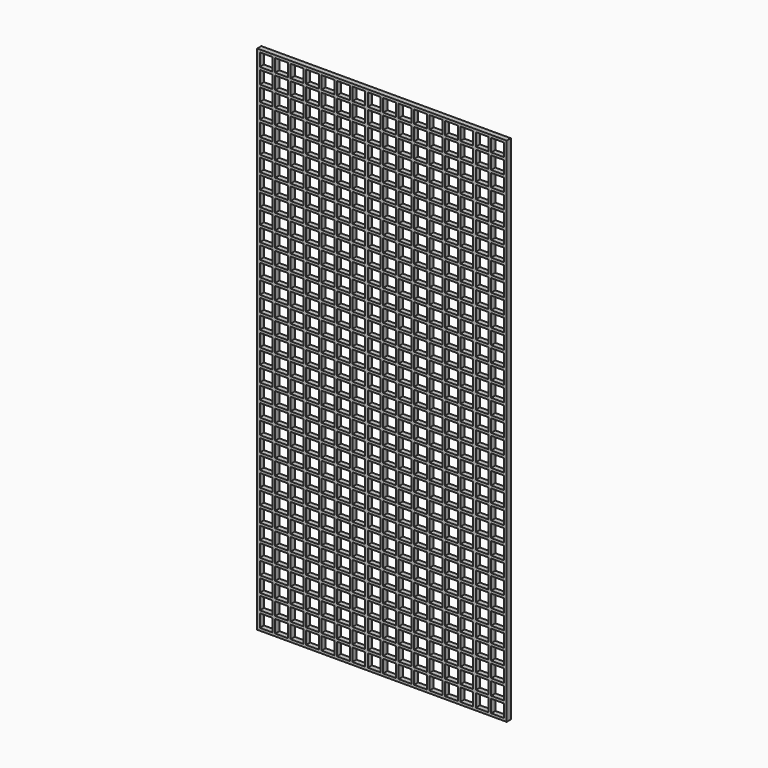
from build123d import *

# Parameters (mm, degrees)
F0_W     = 970
F0_H     = 1990
F1_DEPTH = 20
F2_W     = 50
F2_H     = 50
F3_DEPTH = 25


with BuildPart() as f1:
    # F0 (on Front) → F1 (new body)
    with BuildSketch(Plane.XZ):
        with Locations((-6.657156, 636.105046)):
            Rectangle(F0_W, F0_H)
    extrude(amount=F1_DEPTH)

    # F2 (on face) → F3 (cut)
    with BuildSketch(Plane.XZ.offset(20)):
        with Locations((-456.657156, 1596.105046)):
            Rectangle(F2_W, F2_H)
        with Locations((-456.657156, 1536.105046)):
            Rectangle(F2_W, F2_H)
        with Locations((-456.657156, 1476.105046)):
            Rectangle(F2_W, F2_H)
        with Locations((-456.657156, 1416.105046)):
            Rectangle(F2_W, F2_H)
        with Locations((-456.657156, 1356.105046)):
            Rectangle(F2_W, F2_H)
        with Locations((-456.657156, 1296.105046)):
            Rectangle(F2_W, F2_H)
        with Locations((-456.657156, 1236.105046)):
            Rectangle(F2_W, F2_H)
        with Locations((-456.657156, 1176.105046)):
            Rectangle(F2_W, F2_H)
        with Locations((-456.657156, 1116.105046)):
            Rectangle(F2_W, F2_H)
        with Locations((-456.657156, 1056.105046)):
            Rectangle(F2_W, F2_H)
        with Locations((-456.657156, 996.105046)):
            Rectangle(F2_W, F2_H)
        with Locations((-456.657156, 936.105046)):
            Rectangle(F2_W, F2_H)
        with Locations((-456.657156, 876.105046)):
            Rectangle(F2_W, F2_H)
        with Locations((-456.657156, 816.105046)):
            Rectangle(F2_W, F2_H)
        with Locations((-456.657156, 756.105046)):
            Rectangle(F2_W, F2_H)
        with Locations((-456.657156, 696.105046)):
            Rectangle(F2_W, F2_H)
        with Locations((-456.657156, 636.105046)):
            Rectangle(F2_W, F2_H)
        with Locations((-456.657156, 576.105046)):
            Rectangle(F2_W, F2_H)
        with Locations((-456.657156, 516.105046)):
            Rectangle(F2_W, F2_H)
        with Locations((-456.657156, 456.105046)):
            Rectangle(F2_W, F2_H)
        with Locations((-456.657156, 396.105046)):
            Rectangle(F2_W, F2_H)
        with Locations((-456.657156, 336.105046)):
            Rectangle(F2_W, F2_H)
        with Locations((-456.657156, 276.105046)):
            Rectangle(F2_W, F2_H)
        with Locations((-456.657156, 216.105046)):
            Rectangle(F2_W, F2_H)
        with Locations((-456.657156, 156.105046)):
            Rectangle(F2_W, F2_H)
        with Locations((-456.657156, 96.105046)):
            Rectangle(F2_W, F2_H)
        with Locations((-456.657156, 36.105046)):
            Rectangle(F2_W, F2_H)
        with Locations((-456.657156, -23.894954)):
            Rectangle(F2_W, F2_H)
        with Locations((-456.657156, -83.894954)):
            Rectangle(F2_W, F2_H)
        with Locations((-456.657156, -143.894954)):
            Rectangle(F2_W, F2_H)
        with Locations((-456.657156, -203.894954)):
            Rectangle(F2_W, F2_H)
        with Locations((-456.657156, -263.894954)):
            Rectangle(F2_W, F2_H)
        with Locations((-456.657156, -323.894954)):
            Rectangle(F2_W, F2_H)
        with Locations((-396.657156, 1596.105046)):
            Rectangle(F2_W, F2_H)
        with Locations((-396.657156, 1536.105046)):
            Rectangle(F2_W, F2_H)
        with Locations((-396.657156, 1476.105046)):
            Rectangle(F2_W, F2_H)
        with Locations((-396.657156, 1416.105046)):
            Rectangle(F2_W, F2_H)
        with Locations((-396.657156, 1356.105046)):
            Rectangle(F2_W, F2_H)
        with Locations((-396.657156, 1296.105046)):
            Rectangle(F2_W, F2_H)
        with Locations((-396.657156, 1236.105046)):
            Rectangle(F2_W, F2_H)
        with Locations((-396.657156, 1176.105046)):
            Rectangle(F2_W, F2_H)
        with Locations((-396.657156, 1116.105046)):
            Rectangle(F2_W, F2_H)
        with Locations((-396.657156, 1056.105046)):
            Rectangle(F2_W, F2_H)
        with Locations((-396.657156, 996.105046)):
            Rectangle(F2_W, F2_H)
        with Locations((-396.657156, 936.105046)):
            Rectangle(F2_W, F2_H)
        with Locations((-396.657156, 876.105046)):
            Rectangle(F2_W, F2_H)
        with Locations((-396.657156, 816.105046)):
            Rectangle(F2_W, F2_H)
        with Locations((-396.657156, 756.105046)):
            Rectangle(F2_W, F2_H)
        with Locations((-396.657156, 696.105046)):
            Rectangle(F2_W, F2_H)
        with Locations((-396.657156, 636.105046)):
            Rectangle(F2_W, F2_H)
        with Locations((-396.657156, 576.105046)):
            Rectangle(F2_W, F2_H)
        with Locations((-396.657156, 516.105046)):
            Rectangle(F2_W, F2_H)
        with Locations((-396.657156, 456.105046)):
            Rectangle(F2_W, F2_H)
        with Locations((-396.657156, 396.105046)):
            Rectangle(F2_W, F2_H)
        with Locations((-396.657156, 336.105046)):
            Rectangle(F2_W, F2_H)
        with Locations((-396.657156, 276.105046)):
            Rectangle(F2_W, F2_H)
        with Locations((-396.657156, 216.105046)):
            Rectangle(F2_W, F2_H)
        with Locations((-396.657156, 156.105046)):
            Rectangle(F2_W, F2_H)
        with Locations((-396.657156, 96.105046)):
            Rectangle(F2_W, F2_H)
        with Locations((-396.657156, 36.105046)):
            Rectangle(F2_W, F2_H)
        with Locations((-396.657156, -23.894954)):
            Rectangle(F2_W, F2_H)
        with Locations((-396.657156, -83.894954)):
            Rectangle(F2_W, F2_H)
        with Locations((-396.657156, -143.894954)):
            Rectangle(F2_W, F2_H)
        with Locations((-396.657156, -203.894954)):
            Rectangle(F2_W, F2_H)
        with Locations((-396.657156, -263.894954)):
            Rectangle(F2_W, F2_H)
        with Locations((-396.657156, -323.894954)):
            Rectangle(F2_W, F2_H)
        with Locations((-336.657156, 1596.105046)):
            Rectangle(F2_W, F2_H)
        with Locations((-336.657156, 1536.105046)):
            Rectangle(F2_W, F2_H)
        with Locations((-336.657156, 1476.105046)):
            Rectangle(F2_W, F2_H)
        with Locations((-336.657156, 1416.105046)):
            Rectangle(F2_W, F2_H)
        with Locations((-336.657156, 1356.105046)):
            Rectangle(F2_W, F2_H)
        with Locations((-336.657156, 1296.105046)):
            Rectangle(F2_W, F2_H)
        with Locations((-336.657156, 1236.105046)):
            Rectangle(F2_W, F2_H)
        with Locations((-336.657156, 1176.105046)):
            Rectangle(F2_W, F2_H)
        with Locations((-336.657156, 1116.105046)):
            Rectangle(F2_W, F2_H)
        with Locations((-336.657156, 1056.105046)):
            Rectangle(F2_W, F2_H)
        with Locations((-336.657156, 996.105046)):
            Rectangle(F2_W, F2_H)
        with Locations((-336.657156, 936.105046)):
            Rectangle(F2_W, F2_H)
        with Locations((-336.657156, 876.105046)):
            Rectangle(F2_W, F2_H)
        with Locations((-336.657156, 816.105046)):
            Rectangle(F2_W, F2_H)
        with Locations((-336.657156, 756.105046)):
            Rectangle(F2_W, F2_H)
        with Locations((-336.657156, 696.105046)):
            Rectangle(F2_W, F2_H)
        with Locations((-336.657156, 636.105046)):
            Rectangle(F2_W, F2_H)
        with Locations((-336.657156, 576.105046)):
            Rectangle(F2_W, F2_H)
        with Locations((-336.657156, 516.105046)):
            Rectangle(F2_W, F2_H)
        with Locations((-336.657156, 456.105046)):
            Rectangle(F2_W, F2_H)
        with Locations((-336.657156, 396.105046)):
            Rectangle(F2_W, F2_H)
        with Locations((-336.657156, 336.105046)):
            Rectangle(F2_W, F2_H)
        with Locations((-336.657156, 276.105046)):
            Rectangle(F2_W, F2_H)
        with Locations((-336.657156, 216.105046)):
            Rectangle(F2_W, F2_H)
        with Locations((-336.657156, 156.105046)):
            Rectangle(F2_W, F2_H)
        with Locations((-336.657156, 96.105046)):
            Rectangle(F2_W, F2_H)
        with Locations((-336.657156, 36.105046)):
            Rectangle(F2_W, F2_H)
        with Locations((-336.657156, -23.894954)):
            Rectangle(F2_W, F2_H)
        with Locations((-336.657156, -83.894954)):
            Rectangle(F2_W, F2_H)
        with Locations((-336.657156, -143.894954)):
            Rectangle(F2_W, F2_H)
        with Locations((-336.657156, -203.894954)):
            Rectangle(F2_W, F2_H)
        with Locations((-336.657156, -263.894954)):
            Rectangle(F2_W, F2_H)
        with Locations((-336.657156, -323.894954)):
            Rectangle(F2_W, F2_H)
        with Locations((-276.657156, 1596.105046)):
            Rectangle(F2_W, F2_H)
        with Locations((-276.657156, 1536.105046)):
            Rectangle(F2_W, F2_H)
        with Locations((-276.657156, 1476.105046)):
            Rectangle(F2_W, F2_H)
        with Locations((-276.657156, 1416.105046)):
            Rectangle(F2_W, F2_H)
        with Locations((-276.657156, 1356.105046)):
            Rectangle(F2_W, F2_H)
        with Locations((-276.657156, 1296.105046)):
            Rectangle(F2_W, F2_H)
        with Locations((-276.657156, 1236.105046)):
            Rectangle(F2_W, F2_H)
        with Locations((-276.657156, 1176.105046)):
            Rectangle(F2_W, F2_H)
        with Locations((-276.657156, 1116.105046)):
            Rectangle(F2_W, F2_H)
        with Locations((-276.657156, 1056.105046)):
            Rectangle(F2_W, F2_H)
        with Locations((-276.657156, 996.105046)):
            Rectangle(F2_W, F2_H)
        with Locations((-276.657156, 936.105046)):
            Rectangle(F2_W, F2_H)
        with Locations((-276.657156, 876.105046)):
            Rectangle(F2_W, F2_H)
        with Locations((-276.657156, 816.105046)):
            Rectangle(F2_W, F2_H)
        with Locations((-276.657156, 756.105046)):
            Rectangle(F2_W, F2_H)
        with Locations((-276.657156, 696.105046)):
            Rectangle(F2_W, F2_H)
        with Locations((-276.657156, 636.105046)):
            Rectangle(F2_W, F2_H)
        with Locations((-276.657156, 576.105046)):
            Rectangle(F2_W, F2_H)
        with Locations((-276.657156, 516.105046)):
            Rectangle(F2_W, F2_H)
        with Locations((-276.657156, 456.105046)):
            Rectangle(F2_W, F2_H)
        with Locations((-276.657156, 396.105046)):
            Rectangle(F2_W, F2_H)
        with Locations((-276.657156, 336.105046)):
            Rectangle(F2_W, F2_H)
        with Locations((-276.657156, 276.105046)):
            Rectangle(F2_W, F2_H)
        with Locations((-276.657156, 216.105046)):
            Rectangle(F2_W, F2_H)
        with Locations((-276.657156, 156.105046)):
            Rectangle(F2_W, F2_H)
        with Locations((-276.657156, 96.105046)):
            Rectangle(F2_W, F2_H)
        with Locations((-276.657156, 36.105046)):
            Rectangle(F2_W, F2_H)
        with Locations((-276.657156, -23.894954)):
            Rectangle(F2_W, F2_H)
        with Locations((-276.657156, -83.894954)):
            Rectangle(F2_W, F2_H)
        with Locations((-276.657156, -143.894954)):
            Rectangle(F2_W, F2_H)
        with Locations((-276.657156, -203.894954)):
            Rectangle(F2_W, F2_H)
        with Locations((-276.657156, -263.894954)):
            Rectangle(F2_W, F2_H)
        with Locations((-276.657156, -323.894954)):
            Rectangle(F2_W, F2_H)
        with Locations((-216.657156, 1596.105046)):
            Rectangle(F2_W, F2_H)
        with Locations((-216.657156, 1536.105046)):
            Rectangle(F2_W, F2_H)
        with Locations((-216.657156, 1476.105046)):
            Rectangle(F2_W, F2_H)
        with Locations((-216.657156, 1416.105046)):
            Rectangle(F2_W, F2_H)
        with Locations((-216.657156, 1356.105046)):
            Rectangle(F2_W, F2_H)
        with Locations((-216.657156, 1296.105046)):
            Rectangle(F2_W, F2_H)
        with Locations((-216.657156, 1236.105046)):
            Rectangle(F2_W, F2_H)
        with Locations((-216.657156, 1176.105046)):
            Rectangle(F2_W, F2_H)
        with Locations((-216.657156, 1116.105046)):
            Rectangle(F2_W, F2_H)
        with Locations((-216.657156, 1056.105046)):
            Rectangle(F2_W, F2_H)
        with Locations((-216.657156, 996.105046)):
            Rectangle(F2_W, F2_H)
        with Locations((-216.657156, 936.105046)):
            Rectangle(F2_W, F2_H)
        with Locations((-216.657156, 876.105046)):
            Rectangle(F2_W, F2_H)
        with Locations((-216.657156, 816.105046)):
            Rectangle(F2_W, F2_H)
        with Locations((-216.657156, 756.105046)):
            Rectangle(F2_W, F2_H)
        with Locations((-216.657156, 696.105046)):
            Rectangle(F2_W, F2_H)
        with Locations((-216.657156, 636.105046)):
            Rectangle(F2_W, F2_H)
        with Locations((-216.657156, 576.105046)):
            Rectangle(F2_W, F2_H)
        with Locations((-216.657156, 516.105046)):
            Rectangle(F2_W, F2_H)
        with Locations((-216.657156, 456.105046)):
            Rectangle(F2_W, F2_H)
        with Locations((-216.657156, 396.105046)):
            Rectangle(F2_W, F2_H)
        with Locations((-216.657156, 336.105046)):
            Rectangle(F2_W, F2_H)
        with Locations((-216.657156, 276.105046)):
            Rectangle(F2_W, F2_H)
        with Locations((-216.657156, 216.105046)):
            Rectangle(F2_W, F2_H)
        with Locations((-216.657156, 156.105046)):
            Rectangle(F2_W, F2_H)
        with Locations((-216.657156, 96.105046)):
            Rectangle(F2_W, F2_H)
        with Locations((-216.657156, 36.105046)):
            Rectangle(F2_W, F2_H)
        with Locations((-216.657156, -23.894954)):
            Rectangle(F2_W, F2_H)
        with Locations((-216.657156, -83.894954)):
            Rectangle(F2_W, F2_H)
        with Locations((-216.657156, -143.894954)):
            Rectangle(F2_W, F2_H)
        with Locations((-216.657156, -203.894954)):
            Rectangle(F2_W, F2_H)
        with Locations((-216.657156, -263.894954)):
            Rectangle(F2_W, F2_H)
        with Locations((-216.657156, -323.894954)):
            Rectangle(F2_W, F2_H)
        with Locations((-156.657156, 1596.105046)):
            Rectangle(F2_W, F2_H)
        with Locations((-156.657156, 1536.105046)):
            Rectangle(F2_W, F2_H)
        with Locations((-156.657156, 1476.105046)):
            Rectangle(F2_W, F2_H)
        with Locations((-156.657156, 1416.105046)):
            Rectangle(F2_W, F2_H)
        with Locations((-156.657156, 1356.105046)):
            Rectangle(F2_W, F2_H)
        with Locations((-156.657156, 1296.105046)):
            Rectangle(F2_W, F2_H)
        with Locations((-156.657156, 1236.105046)):
            Rectangle(F2_W, F2_H)
        with Locations((-156.657156, 1176.105046)):
            Rectangle(F2_W, F2_H)
        with Locations((-156.657156, 1116.105046)):
            Rectangle(F2_W, F2_H)
        with Locations((-156.657156, 1056.105046)):
            Rectangle(F2_W, F2_H)
        with Locations((-156.657156, 996.105046)):
            Rectangle(F2_W, F2_H)
        with Locations((-156.657156, 936.105046)):
            Rectangle(F2_W, F2_H)
        with Locations((-156.657156, 876.105046)):
            Rectangle(F2_W, F2_H)
        with Locations((-156.657156, 816.105046)):
            Rectangle(F2_W, F2_H)
        with Locations((-156.657156, 756.105046)):
            Rectangle(F2_W, F2_H)
        with Locations((-156.657156, 696.105046)):
            Rectangle(F2_W, F2_H)
        with Locations((-156.657156, 636.105046)):
            Rectangle(F2_W, F2_H)
        with Locations((-156.657156, 576.105046)):
            Rectangle(F2_W, F2_H)
        with Locations((-156.657156, 516.105046)):
            Rectangle(F2_W, F2_H)
        with Locations((-156.657156, 456.105046)):
            Rectangle(F2_W, F2_H)
        with Locations((-156.657156, 396.105046)):
            Rectangle(F2_W, F2_H)
        with Locations((-156.657156, 336.105046)):
            Rectangle(F2_W, F2_H)
        with Locations((-156.657156, 276.105046)):
            Rectangle(F2_W, F2_H)
        with Locations((-156.657156, 216.105046)):
            Rectangle(F2_W, F2_H)
        with Locations((-156.657156, 156.105046)):
            Rectangle(F2_W, F2_H)
        with Locations((-156.657156, 96.105046)):
            Rectangle(F2_W, F2_H)
        with Locations((-156.657156, 36.105046)):
            Rectangle(F2_W, F2_H)
        with Locations((-156.657156, -23.894954)):
            Rectangle(F2_W, F2_H)
        with Locations((-156.657156, -83.894954)):
            Rectangle(F2_W, F2_H)
        with Locations((-156.657156, -143.894954)):
            Rectangle(F2_W, F2_H)
        with Locations((-156.657156, -203.894954)):
            Rectangle(F2_W, F2_H)
        with Locations((-156.657156, -263.894954)):
            Rectangle(F2_W, F2_H)
        with Locations((-156.657156, -323.894954)):
            Rectangle(F2_W, F2_H)
        with Locations((-96.657156, 1596.105046)):
            Rectangle(F2_W, F2_H)
        with Locations((-96.657156, 1536.105046)):
            Rectangle(F2_W, F2_H)
        with Locations((-96.657156, 1476.105046)):
            Rectangle(F2_W, F2_H)
        with Locations((-96.657156, 1416.105046)):
            Rectangle(F2_W, F2_H)
        with Locations((-96.657156, 1356.105046)):
            Rectangle(F2_W, F2_H)
        with Locations((-96.657156, 1296.105046)):
            Rectangle(F2_W, F2_H)
        with Locations((-96.657156, 1236.105046)):
            Rectangle(F2_W, F2_H)
        with Locations((-96.657156, 1176.105046)):
            Rectangle(F2_W, F2_H)
        with Locations((-96.657156, 1116.105046)):
            Rectangle(F2_W, F2_H)
        with Locations((-96.657156, 1056.105046)):
            Rectangle(F2_W, F2_H)
        with Locations((-96.657156, 996.105046)):
            Rectangle(F2_W, F2_H)
        with Locations((-96.657156, 936.105046)):
            Rectangle(F2_W, F2_H)
        with Locations((-96.657156, 876.105046)):
            Rectangle(F2_W, F2_H)
        with Locations((-96.657156, 816.105046)):
            Rectangle(F2_W, F2_H)
        with Locations((-96.657156, 756.105046)):
            Rectangle(F2_W, F2_H)
        with Locations((-96.657156, 696.105046)):
            Rectangle(F2_W, F2_H)
        with Locations((-96.657156, 636.105046)):
            Rectangle(F2_W, F2_H)
        with Locations((-96.657156, 576.105046)):
            Rectangle(F2_W, F2_H)
        with Locations((-96.657156, 516.105046)):
            Rectangle(F2_W, F2_H)
        with Locations((-96.657156, 456.105046)):
            Rectangle(F2_W, F2_H)
        with Locations((-96.657156, 396.105046)):
            Rectangle(F2_W, F2_H)
        with Locations((-96.657156, 336.105046)):
            Rectangle(F2_W, F2_H)
        with Locations((-96.657156, 276.105046)):
            Rectangle(F2_W, F2_H)
        with Locations((-96.657156, 216.105046)):
            Rectangle(F2_W, F2_H)
        with Locations((-96.657156, 156.105046)):
            Rectangle(F2_W, F2_H)
        with Locations((-96.657156, 96.105046)):
            Rectangle(F2_W, F2_H)
        with Locations((-96.657156, 36.105046)):
            Rectangle(F2_W, F2_H)
        with Locations((-96.657156, -23.894954)):
            Rectangle(F2_W, F2_H)
        with Locations((-96.657156, -83.894954)):
            Rectangle(F2_W, F2_H)
        with Locations((-96.657156, -143.894954)):
            Rectangle(F2_W, F2_H)
        with Locations((-96.657156, -203.894954)):
            Rectangle(F2_W, F2_H)
        with Locations((-96.657156, -263.894954)):
            Rectangle(F2_W, F2_H)
        with Locations((-96.657156, -323.894954)):
            Rectangle(F2_W, F2_H)
        with Locations((-36.657156, 1596.105046)):
            Rectangle(F2_W, F2_H)
        with Locations((-36.657156, 1536.105046)):
            Rectangle(F2_W, F2_H)
        with Locations((-36.657156, 1476.105046)):
            Rectangle(F2_W, F2_H)
        with Locations((-36.657156, 1416.105046)):
            Rectangle(F2_W, F2_H)
        with Locations((-36.657156, 1356.105046)):
            Rectangle(F2_W, F2_H)
        with Locations((-36.657156, 1296.105046)):
            Rectangle(F2_W, F2_H)
        with Locations((-36.657156, 1236.105046)):
            Rectangle(F2_W, F2_H)
        with Locations((-36.657156, 1176.105046)):
            Rectangle(F2_W, F2_H)
        with Locations((-36.657156, 1116.105046)):
            Rectangle(F2_W, F2_H)
        with Locations((-36.657156, 1056.105046)):
            Rectangle(F2_W, F2_H)
        with Locations((-36.657156, 996.105046)):
            Rectangle(F2_W, F2_H)
        with Locations((-36.657156, 936.105046)):
            Rectangle(F2_W, F2_H)
        with Locations((-36.657156, 876.105046)):
            Rectangle(F2_W, F2_H)
        with Locations((-36.657156, 816.105046)):
            Rectangle(F2_W, F2_H)
        with Locations((-36.657156, 756.105046)):
            Rectangle(F2_W, F2_H)
        with Locations((-36.657156, 696.105046)):
            Rectangle(F2_W, F2_H)
        with Locations((-36.657156, 636.105046)):
            Rectangle(F2_W, F2_H)
        with Locations((-36.657156, 576.105046)):
            Rectangle(F2_W, F2_H)
        with Locations((-36.657156, 516.105046)):
            Rectangle(F2_W, F2_H)
        with Locations((-36.657156, 456.105046)):
            Rectangle(F2_W, F2_H)
        with Locations((-36.657156, 396.105046)):
            Rectangle(F2_W, F2_H)
        with Locations((-36.657156, 336.105046)):
            Rectangle(F2_W, F2_H)
        with Locations((-36.657156, 276.105046)):
            Rectangle(F2_W, F2_H)
        with Locations((-36.657156, 216.105046)):
            Rectangle(F2_W, F2_H)
        with Locations((-36.657156, 156.105046)):
            Rectangle(F2_W, F2_H)
        with Locations((-36.657156, 96.105046)):
            Rectangle(F2_W, F2_H)
        with Locations((-36.657156, 36.105046)):
            Rectangle(F2_W, F2_H)
        with Locations((-36.657156, -23.894954)):
            Rectangle(F2_W, F2_H)
        with Locations((-36.657156, -83.894954)):
            Rectangle(F2_W, F2_H)
        with Locations((-36.657156, -143.894954)):
            Rectangle(F2_W, F2_H)
        with Locations((-36.657156, -203.894954)):
            Rectangle(F2_W, F2_H)
        with Locations((-36.657156, -263.894954)):
            Rectangle(F2_W, F2_H)
        with Locations((-36.657156, -323.894954)):
            Rectangle(F2_W, F2_H)
        with Locations((23.342844, 1596.105046)):
            Rectangle(F2_W, F2_H)
        with Locations((23.342844, 1536.105046)):
            Rectangle(F2_W, F2_H)
        with Locations((23.342844, 1476.105046)):
            Rectangle(F2_W, F2_H)
        with Locations((23.342844, 1416.105046)):
            Rectangle(F2_W, F2_H)
        with Locations((23.342844, 1356.105046)):
            Rectangle(F2_W, F2_H)
        with Locations((23.342844, 1296.105046)):
            Rectangle(F2_W, F2_H)
        with Locations((23.342844, 1236.105046)):
            Rectangle(F2_W, F2_H)
        with Locations((23.342844, 1176.105046)):
            Rectangle(F2_W, F2_H)
        with Locations((23.342844, 1116.105046)):
            Rectangle(F2_W, F2_H)
        with Locations((23.342844, 1056.105046)):
            Rectangle(F2_W, F2_H)
        with Locations((23.342844, 996.105046)):
            Rectangle(F2_W, F2_H)
        with Locations((23.342844, 936.105046)):
            Rectangle(F2_W, F2_H)
        with Locations((23.342844, 876.105046)):
            Rectangle(F2_W, F2_H)
        with Locations((23.342844, 816.105046)):
            Rectangle(F2_W, F2_H)
        with Locations((23.342844, 756.105046)):
            Rectangle(F2_W, F2_H)
        with Locations((23.342844, 696.105046)):
            Rectangle(F2_W, F2_H)
        with Locations((23.342844, 636.105046)):
            Rectangle(F2_W, F2_H)
        with Locations((23.342844, 576.105046)):
            Rectangle(F2_W, F2_H)
        with Locations((23.342844, 516.105046)):
            Rectangle(F2_W, F2_H)
        with Locations((23.342844, 456.105046)):
            Rectangle(F2_W, F2_H)
        with Locations((23.342844, 396.105046)):
            Rectangle(F2_W, F2_H)
        with Locations((23.342844, 336.105046)):
            Rectangle(F2_W, F2_H)
        with Locations((23.342844, 276.105046)):
            Rectangle(F2_W, F2_H)
        with Locations((23.342844, 216.105046)):
            Rectangle(F2_W, F2_H)
        with Locations((23.342844, 156.105046)):
            Rectangle(F2_W, F2_H)
        with Locations((23.342844, 96.105046)):
            Rectangle(F2_W, F2_H)
        with Locations((23.342844, 36.105046)):
            Rectangle(F2_W, F2_H)
        with Locations((23.342844, -23.894954)):
            Rectangle(F2_W, F2_H)
        with Locations((23.342844, -83.894954)):
            Rectangle(F2_W, F2_H)
        with Locations((23.342844, -143.894954)):
            Rectangle(F2_W, F2_H)
        with Locations((23.342844, -203.894954)):
            Rectangle(F2_W, F2_H)
        with Locations((23.342844, -263.894954)):
            Rectangle(F2_W, F2_H)
        with Locations((23.342844, -323.894954)):
            Rectangle(F2_W, F2_H)
        with Locations((83.342844, 1596.105046)):
            Rectangle(F2_W, F2_H)
        with Locations((83.342844, 1536.105046)):
            Rectangle(F2_W, F2_H)
        with Locations((83.342844, 1476.105046)):
            Rectangle(F2_W, F2_H)
        with Locations((83.342844, 1416.105046)):
            Rectangle(F2_W, F2_H)
        with Locations((83.342844, 1356.105046)):
            Rectangle(F2_W, F2_H)
        with Locations((83.342844, 1296.105046)):
            Rectangle(F2_W, F2_H)
        with Locations((83.342844, 1236.105046)):
            Rectangle(F2_W, F2_H)
        with Locations((83.342844, 1176.105046)):
            Rectangle(F2_W, F2_H)
        with Locations((83.342844, 1116.105046)):
            Rectangle(F2_W, F2_H)
        with Locations((83.342844, 1056.105046)):
            Rectangle(F2_W, F2_H)
        with Locations((83.342844, 996.105046)):
            Rectangle(F2_W, F2_H)
        with Locations((83.342844, 936.105046)):
            Rectangle(F2_W, F2_H)
        with Locations((83.342844, 876.105046)):
            Rectangle(F2_W, F2_H)
        with Locations((83.342844, 816.105046)):
            Rectangle(F2_W, F2_H)
        with Locations((83.342844, 756.105046)):
            Rectangle(F2_W, F2_H)
        with Locations((83.342844, 696.105046)):
            Rectangle(F2_W, F2_H)
        with Locations((83.342844, 636.105046)):
            Rectangle(F2_W, F2_H)
        with Locations((83.342844, 576.105046)):
            Rectangle(F2_W, F2_H)
        with Locations((83.342844, 516.105046)):
            Rectangle(F2_W, F2_H)
        with Locations((83.342844, 456.105046)):
            Rectangle(F2_W, F2_H)
        with Locations((83.342844, 396.105046)):
            Rectangle(F2_W, F2_H)
        with Locations((83.342844, 336.105046)):
            Rectangle(F2_W, F2_H)
        with Locations((83.342844, 276.105046)):
            Rectangle(F2_W, F2_H)
        with Locations((83.342844, 216.105046)):
            Rectangle(F2_W, F2_H)
        with Locations((83.342844, 156.105046)):
            Rectangle(F2_W, F2_H)
        with Locations((83.342844, 96.105046)):
            Rectangle(F2_W, F2_H)
        with Locations((83.342844, 36.105046)):
            Rectangle(F2_W, F2_H)
        with Locations((83.342844, -23.894954)):
            Rectangle(F2_W, F2_H)
        with Locations((83.342844, -83.894954)):
            Rectangle(F2_W, F2_H)
        with Locations((83.342844, -143.894954)):
            Rectangle(F2_W, F2_H)
        with Locations((83.342844, -203.894954)):
            Rectangle(F2_W, F2_H)
        with Locations((83.342844, -263.894954)):
            Rectangle(F2_W, F2_H)
        with Locations((83.342844, -323.894954)):
            Rectangle(F2_W, F2_H)
        with Locations((143.342844, 1596.105046)):
            Rectangle(F2_W, F2_H)
        with Locations((143.342844, 1536.105046)):
            Rectangle(F2_W, F2_H)
        with Locations((143.342844, 1476.105046)):
            Rectangle(F2_W, F2_H)
        with Locations((143.342844, 1416.105046)):
            Rectangle(F2_W, F2_H)
        with Locations((143.342844, 1356.105046)):
            Rectangle(F2_W, F2_H)
        with Locations((143.342844, 1296.105046)):
            Rectangle(F2_W, F2_H)
        with Locations((143.342844, 1236.105046)):
            Rectangle(F2_W, F2_H)
        with Locations((143.342844, 1176.105046)):
            Rectangle(F2_W, F2_H)
        with Locations((143.342844, 1116.105046)):
            Rectangle(F2_W, F2_H)
        with Locations((143.342844, 1056.105046)):
            Rectangle(F2_W, F2_H)
        with Locations((143.342844, 996.105046)):
            Rectangle(F2_W, F2_H)
        with Locations((143.342844, 936.105046)):
            Rectangle(F2_W, F2_H)
        with Locations((143.342844, 876.105046)):
            Rectangle(F2_W, F2_H)
        with Locations((143.342844, 816.105046)):
            Rectangle(F2_W, F2_H)
        with Locations((143.342844, 756.105046)):
            Rectangle(F2_W, F2_H)
        with Locations((143.342844, 696.105046)):
            Rectangle(F2_W, F2_H)
        with Locations((143.342844, 636.105046)):
            Rectangle(F2_W, F2_H)
        with Locations((143.342844, 576.105046)):
            Rectangle(F2_W, F2_H)
        with Locations((143.342844, 516.105046)):
            Rectangle(F2_W, F2_H)
        with Locations((143.342844, 456.105046)):
            Rectangle(F2_W, F2_H)
        with Locations((143.342844, 396.105046)):
            Rectangle(F2_W, F2_H)
        with Locations((143.342844, 336.105046)):
            Rectangle(F2_W, F2_H)
        with Locations((143.342844, 276.105046)):
            Rectangle(F2_W, F2_H)
        with Locations((143.342844, 216.105046)):
            Rectangle(F2_W, F2_H)
        with Locations((143.342844, 156.105046)):
            Rectangle(F2_W, F2_H)
        with Locations((143.342844, 96.105046)):
            Rectangle(F2_W, F2_H)
        with Locations((143.342844, 36.105046)):
            Rectangle(F2_W, F2_H)
        with Locations((143.342844, -23.894954)):
            Rectangle(F2_W, F2_H)
        with Locations((143.342844, -83.894954)):
            Rectangle(F2_W, F2_H)
        with Locations((143.342844, -143.894954)):
            Rectangle(F2_W, F2_H)
        with Locations((143.342844, -203.894954)):
            Rectangle(F2_W, F2_H)
        with Locations((143.342844, -263.894954)):
            Rectangle(F2_W, F2_H)
        with Locations((143.342844, -323.894954)):
            Rectangle(F2_W, F2_H)
        with Locations((203.342844, 1596.105046)):
            Rectangle(F2_W, F2_H)
        with Locations((203.342844, 1536.105046)):
            Rectangle(F2_W, F2_H)
        with Locations((203.342844, 1476.105046)):
            Rectangle(F2_W, F2_H)
        with Locations((203.342844, 1416.105046)):
            Rectangle(F2_W, F2_H)
        with Locations((203.342844, 1356.105046)):
            Rectangle(F2_W, F2_H)
        with Locations((203.342844, 1296.105046)):
            Rectangle(F2_W, F2_H)
        with Locations((203.342844, 1236.105046)):
            Rectangle(F2_W, F2_H)
        with Locations((203.342844, 1176.105046)):
            Rectangle(F2_W, F2_H)
        with Locations((203.342844, 1116.105046)):
            Rectangle(F2_W, F2_H)
        with Locations((203.342844, 1056.105046)):
            Rectangle(F2_W, F2_H)
        with Locations((203.342844, 996.105046)):
            Rectangle(F2_W, F2_H)
        with Locations((203.342844, 936.105046)):
            Rectangle(F2_W, F2_H)
        with Locations((203.342844, 876.105046)):
            Rectangle(F2_W, F2_H)
        with Locations((203.342844, 816.105046)):
            Rectangle(F2_W, F2_H)
        with Locations((203.342844, 756.105046)):
            Rectangle(F2_W, F2_H)
        with Locations((203.342844, 696.105046)):
            Rectangle(F2_W, F2_H)
        with Locations((203.342844, 636.105046)):
            Rectangle(F2_W, F2_H)
        with Locations((203.342844, 576.105046)):
            Rectangle(F2_W, F2_H)
        with Locations((203.342844, 516.105046)):
            Rectangle(F2_W, F2_H)
        with Locations((203.342844, 456.105046)):
            Rectangle(F2_W, F2_H)
        with Locations((203.342844, 396.105046)):
            Rectangle(F2_W, F2_H)
        with Locations((203.342844, 336.105046)):
            Rectangle(F2_W, F2_H)
        with Locations((203.342844, 276.105046)):
            Rectangle(F2_W, F2_H)
        with Locations((203.342844, 216.105046)):
            Rectangle(F2_W, F2_H)
        with Locations((203.342844, 156.105046)):
            Rectangle(F2_W, F2_H)
        with Locations((203.342844, 96.105046)):
            Rectangle(F2_W, F2_H)
        with Locations((203.342844, 36.105046)):
            Rectangle(F2_W, F2_H)
        with Locations((203.342844, -23.894954)):
            Rectangle(F2_W, F2_H)
        with Locations((203.342844, -83.894954)):
            Rectangle(F2_W, F2_H)
        with Locations((203.342844, -143.894954)):
            Rectangle(F2_W, F2_H)
        with Locations((203.342844, -203.894954)):
            Rectangle(F2_W, F2_H)
        with Locations((203.342844, -263.894954)):
            Rectangle(F2_W, F2_H)
        with Locations((203.342844, -323.894954)):
            Rectangle(F2_W, F2_H)
        with Locations((263.342844, 1596.105046)):
            Rectangle(F2_W, F2_H)
        with Locations((263.342844, 1536.105046)):
            Rectangle(F2_W, F2_H)
        with Locations((263.342844, 1476.105046)):
            Rectangle(F2_W, F2_H)
        with Locations((263.342844, 1416.105046)):
            Rectangle(F2_W, F2_H)
        with Locations((263.342844, 1356.105046)):
            Rectangle(F2_W, F2_H)
        with Locations((263.342844, 1296.105046)):
            Rectangle(F2_W, F2_H)
        with Locations((263.342844, 1236.105046)):
            Rectangle(F2_W, F2_H)
        with Locations((263.342844, 1176.105046)):
            Rectangle(F2_W, F2_H)
        with Locations((263.342844, 1116.105046)):
            Rectangle(F2_W, F2_H)
        with Locations((263.342844, 1056.105046)):
            Rectangle(F2_W, F2_H)
        with Locations((263.342844, 996.105046)):
            Rectangle(F2_W, F2_H)
        with Locations((263.342844, 936.105046)):
            Rectangle(F2_W, F2_H)
        with Locations((263.342844, 876.105046)):
            Rectangle(F2_W, F2_H)
        with Locations((263.342844, 816.105046)):
            Rectangle(F2_W, F2_H)
        with Locations((263.342844, 756.105046)):
            Rectangle(F2_W, F2_H)
        with Locations((263.342844, 696.105046)):
            Rectangle(F2_W, F2_H)
        with Locations((263.342844, 636.105046)):
            Rectangle(F2_W, F2_H)
        with Locations((263.342844, 576.105046)):
            Rectangle(F2_W, F2_H)
        with Locations((263.342844, 516.105046)):
            Rectangle(F2_W, F2_H)
        with Locations((263.342844, 456.105046)):
            Rectangle(F2_W, F2_H)
        with Locations((263.342844, 396.105046)):
            Rectangle(F2_W, F2_H)
        with Locations((263.342844, 336.105046)):
            Rectangle(F2_W, F2_H)
        with Locations((263.342844, 276.105046)):
            Rectangle(F2_W, F2_H)
        with Locations((263.342844, 216.105046)):
            Rectangle(F2_W, F2_H)
        with Locations((263.342844, 156.105046)):
            Rectangle(F2_W, F2_H)
        with Locations((263.342844, 96.105046)):
            Rectangle(F2_W, F2_H)
        with Locations((263.342844, 36.105046)):
            Rectangle(F2_W, F2_H)
        with Locations((263.342844, -23.894954)):
            Rectangle(F2_W, F2_H)
        with Locations((263.342844, -83.894954)):
            Rectangle(F2_W, F2_H)
        with Locations((263.342844, -143.894954)):
            Rectangle(F2_W, F2_H)
        with Locations((263.342844, -203.894954)):
            Rectangle(F2_W, F2_H)
        with Locations((263.342844, -263.894954)):
            Rectangle(F2_W, F2_H)
        with Locations((263.342844, -323.894954)):
            Rectangle(F2_W, F2_H)
        with Locations((323.342844, 1596.105046)):
            Rectangle(F2_W, F2_H)
        with Locations((323.342844, 1536.105046)):
            Rectangle(F2_W, F2_H)
        with Locations((323.342844, 1476.105046)):
            Rectangle(F2_W, F2_H)
        with Locations((323.342844, 1416.105046)):
            Rectangle(F2_W, F2_H)
        with Locations((323.342844, 1356.105046)):
            Rectangle(F2_W, F2_H)
        with Locations((323.342844, 1296.105046)):
            Rectangle(F2_W, F2_H)
        with Locations((323.342844, 1236.105046)):
            Rectangle(F2_W, F2_H)
        with Locations((323.342844, 1176.105046)):
            Rectangle(F2_W, F2_H)
        with Locations((323.342844, 1116.105046)):
            Rectangle(F2_W, F2_H)
        with Locations((323.342844, 1056.105046)):
            Rectangle(F2_W, F2_H)
        with Locations((323.342844, 996.105046)):
            Rectangle(F2_W, F2_H)
        with Locations((323.342844, 936.105046)):
            Rectangle(F2_W, F2_H)
        with Locations((323.342844, 876.105046)):
            Rectangle(F2_W, F2_H)
        with Locations((323.342844, 816.105046)):
            Rectangle(F2_W, F2_H)
        with Locations((323.342844, 756.105046)):
            Rectangle(F2_W, F2_H)
        with Locations((323.342844, 696.105046)):
            Rectangle(F2_W, F2_H)
        with Locations((323.342844, 636.105046)):
            Rectangle(F2_W, F2_H)
        with Locations((323.342844, 576.105046)):
            Rectangle(F2_W, F2_H)
        with Locations((323.342844, 516.105046)):
            Rectangle(F2_W, F2_H)
        with Locations((323.342844, 456.105046)):
            Rectangle(F2_W, F2_H)
        with Locations((323.342844, 396.105046)):
            Rectangle(F2_W, F2_H)
        with Locations((323.342844, 336.105046)):
            Rectangle(F2_W, F2_H)
        with Locations((323.342844, 276.105046)):
            Rectangle(F2_W, F2_H)
        with Locations((323.342844, 216.105046)):
            Rectangle(F2_W, F2_H)
        with Locations((323.342844, 156.105046)):
            Rectangle(F2_W, F2_H)
        with Locations((323.342844, 96.105046)):
            Rectangle(F2_W, F2_H)
        with Locations((323.342844, 36.105046)):
            Rectangle(F2_W, F2_H)
        with Locations((323.342844, -23.894954)):
            Rectangle(F2_W, F2_H)
        with Locations((323.342844, -83.894954)):
            Rectangle(F2_W, F2_H)
        with Locations((323.342844, -143.894954)):
            Rectangle(F2_W, F2_H)
        with Locations((323.342844, -203.894954)):
            Rectangle(F2_W, F2_H)
        with Locations((323.342844, -263.894954)):
            Rectangle(F2_W, F2_H)
        with Locations((323.342844, -323.894954)):
            Rectangle(F2_W, F2_H)
        with Locations((383.342844, 1596.105046)):
            Rectangle(F2_W, F2_H)
        with Locations((383.342844, 1536.105046)):
            Rectangle(F2_W, F2_H)
        with Locations((383.342844, 1476.105046)):
            Rectangle(F2_W, F2_H)
        with Locations((383.342844, 1416.105046)):
            Rectangle(F2_W, F2_H)
        with Locations((383.342844, 1356.105046)):
            Rectangle(F2_W, F2_H)
        with Locations((383.342844, 1296.105046)):
            Rectangle(F2_W, F2_H)
        with Locations((383.342844, 1236.105046)):
            Rectangle(F2_W, F2_H)
        with Locations((383.342844, 1176.105046)):
            Rectangle(F2_W, F2_H)
        with Locations((383.342844, 1116.105046)):
            Rectangle(F2_W, F2_H)
        with Locations((383.342844, 1056.105046)):
            Rectangle(F2_W, F2_H)
        with Locations((383.342844, 996.105046)):
            Rectangle(F2_W, F2_H)
        with Locations((383.342844, 936.105046)):
            Rectangle(F2_W, F2_H)
        with Locations((383.342844, 876.105046)):
            Rectangle(F2_W, F2_H)
        with Locations((383.342844, 816.105046)):
            Rectangle(F2_W, F2_H)
        with Locations((383.342844, 756.105046)):
            Rectangle(F2_W, F2_H)
        with Locations((383.342844, 696.105046)):
            Rectangle(F2_W, F2_H)
        with Locations((383.342844, 636.105046)):
            Rectangle(F2_W, F2_H)
        with Locations((383.342844, 576.105046)):
            Rectangle(F2_W, F2_H)
        with Locations((383.342844, 516.105046)):
            Rectangle(F2_W, F2_H)
        with Locations((383.342844, 456.105046)):
            Rectangle(F2_W, F2_H)
        with Locations((383.342844, 396.105046)):
            Rectangle(F2_W, F2_H)
        with Locations((383.342844, 336.105046)):
            Rectangle(F2_W, F2_H)
        with Locations((383.342844, 276.105046)):
            Rectangle(F2_W, F2_H)
        with Locations((383.342844, 216.105046)):
            Rectangle(F2_W, F2_H)
        with Locations((383.342844, 156.105046)):
            Rectangle(F2_W, F2_H)
        with Locations((383.342844, 96.105046)):
            Rectangle(F2_W, F2_H)
        with Locations((383.342844, 36.105046)):
            Rectangle(F2_W, F2_H)
        with Locations((383.342844, -23.894954)):
            Rectangle(F2_W, F2_H)
        with Locations((383.342844, -83.894954)):
            Rectangle(F2_W, F2_H)
        with Locations((383.342844, -143.894954)):
            Rectangle(F2_W, F2_H)
        with Locations((383.342844, -203.894954)):
            Rectangle(F2_W, F2_H)
        with Locations((383.342844, -263.894954)):
            Rectangle(F2_W, F2_H)
        with Locations((383.342844, -323.894954)):
            Rectangle(F2_W, F2_H)
        with Locations((443.342844, 1596.105046)):
            Rectangle(F2_W, F2_H)
        with Locations((443.342844, 1536.105046)):
            Rectangle(F2_W, F2_H)
        with Locations((443.342844, 1476.105046)):
            Rectangle(F2_W, F2_H)
        with Locations((443.342844, 1416.105046)):
            Rectangle(F2_W, F2_H)
        with Locations((443.342844, 1356.105046)):
            Rectangle(F2_W, F2_H)
        with Locations((443.342844, 1296.105046)):
            Rectangle(F2_W, F2_H)
        with Locations((443.342844, 1236.105046)):
            Rectangle(F2_W, F2_H)
        with Locations((443.342844, 1176.105046)):
            Rectangle(F2_W, F2_H)
        with Locations((443.342844, 1116.105046)):
            Rectangle(F2_W, F2_H)
        with Locations((443.342844, 1056.105046)):
            Rectangle(F2_W, F2_H)
        with Locations((443.342844, 996.105046)):
            Rectangle(F2_W, F2_H)
        with Locations((443.342844, 936.105046)):
            Rectangle(F2_W, F2_H)
        with Locations((443.342844, 876.105046)):
            Rectangle(F2_W, F2_H)
        with Locations((443.342844, 816.105046)):
            Rectangle(F2_W, F2_H)
        with Locations((443.342844, 756.105046)):
            Rectangle(F2_W, F2_H)
        with Locations((443.342844, 696.105046)):
            Rectangle(F2_W, F2_H)
        with Locations((443.342844, 636.105046)):
            Rectangle(F2_W, F2_H)
        with Locations((443.342844, 576.105046)):
            Rectangle(F2_W, F2_H)
        with Locations((443.342844, 516.105046)):
            Rectangle(F2_W, F2_H)
        with Locations((443.342844, 456.105046)):
            Rectangle(F2_W, F2_H)
        with Locations((443.342844, 396.105046)):
            Rectangle(F2_W, F2_H)
        with Locations((443.342844, 336.105046)):
            Rectangle(F2_W, F2_H)
        with Locations((443.342844, 276.105046)):
            Rectangle(F2_W, F2_H)
        with Locations((443.342844, 216.105046)):
            Rectangle(F2_W, F2_H)
        with Locations((443.342844, 156.105046)):
            Rectangle(F2_W, F2_H)
        with Locations((443.342844, 96.105046)):
            Rectangle(F2_W, F2_H)
        with Locations((443.342844, 36.105046)):
            Rectangle(F2_W, F2_H)
        with Locations((443.342844, -23.894954)):
            Rectangle(F2_W, F2_H)
        with Locations((443.342844, -83.894954)):
            Rectangle(F2_W, F2_H)
        with Locations((443.342844, -143.894954)):
            Rectangle(F2_W, F2_H)
        with Locations((443.342844, -203.894954)):
            Rectangle(F2_W, F2_H)
        with Locations((443.342844, -263.894954)):
            Rectangle(F2_W, F2_H)
        with Locations((443.342844, -323.894954)):
            Rectangle(F2_W, F2_H)
    extrude(amount=-F3_DEPTH, mode=Mode.SUBTRACT)


solid = f1.part
